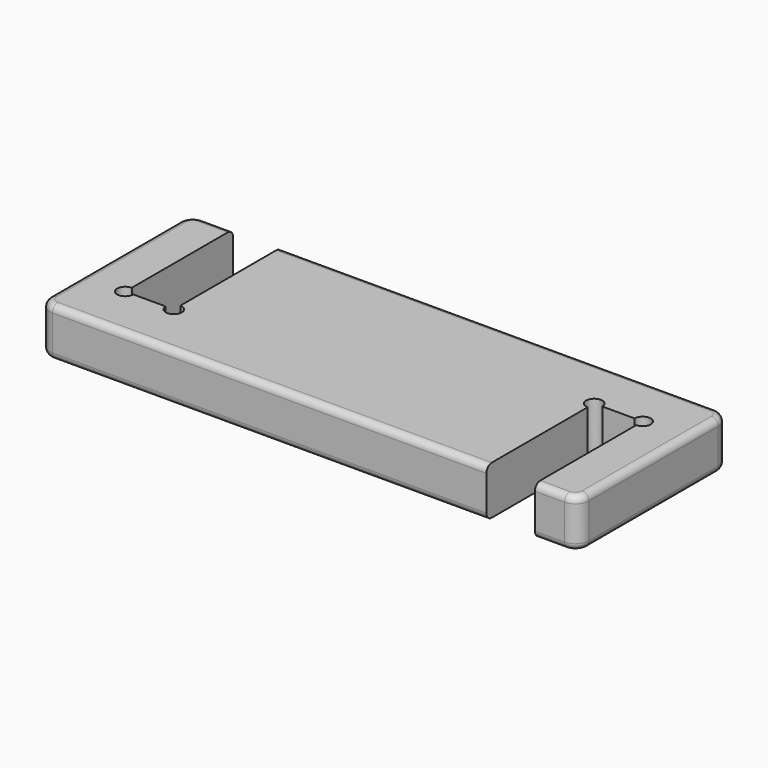
from build123d import *

# Parameters (mm, degrees)
F1_DEPTH = 18
F2_R     = 5
F3_R     = 2.5


with BuildPart() as f1:
    # F0 (on Top) → F1 (new body)
    with BuildSketch(Plane.XY):
        with BuildLine():
            Line((0, 70), (0, 0))
            Line((0, 0), (166, 0))
            Line((166, 0), (166, 47))
            ThreePointArc((166, 47), (163.87868, 52.12132), (169, 50))
            Line((169, 50), (181, 50))
            ThreePointArc((181, 50), (184, 53), (187, 50))
            ThreePointArc((187, 50), (186.12132, 47.87868), (184, 47))
            Line((184, 47), (184, 0))
            Line((184, 0), (200, 0))
            Line((200, 0), (200, 70))
            Line((200, 70), (34, 70))
            Line((34, 70), (34, 23))
            ThreePointArc((34, 23), (36.12132, 22.12132), (37, 20))
            ThreePointArc((37, 20), (34, 17), (31, 20))
            Line((31, 20), (19, 20))
            ThreePointArc((19, 20), (13.87868, 17.87868), (16, 23))
            Line((16, 23), (16, 70))
            Line((16, 70), (0, 70))
        make_face()
    extrude(amount=F1_DEPTH)

    # F2
    f2_edges = [f1.edges().sort_by_distance(p)[0] for p in [
        (0, 0, 9),
        (200, 70, 9),
        (200, 0, 9),
        (0, 70, 9),
    ]]
    fillet(f2_edges, radius=F2_R)

    # F3
    f3_edges = [f1.edges().sort_by_distance(p)[0] for p in [
        (85.5, 0, 18),
        (85.5, 0, 0),
        (114.5, 70, 18),
        (200, 35, 0),
    ]]
    fillet(f3_edges, radius=F3_R)


solid = f1.part
